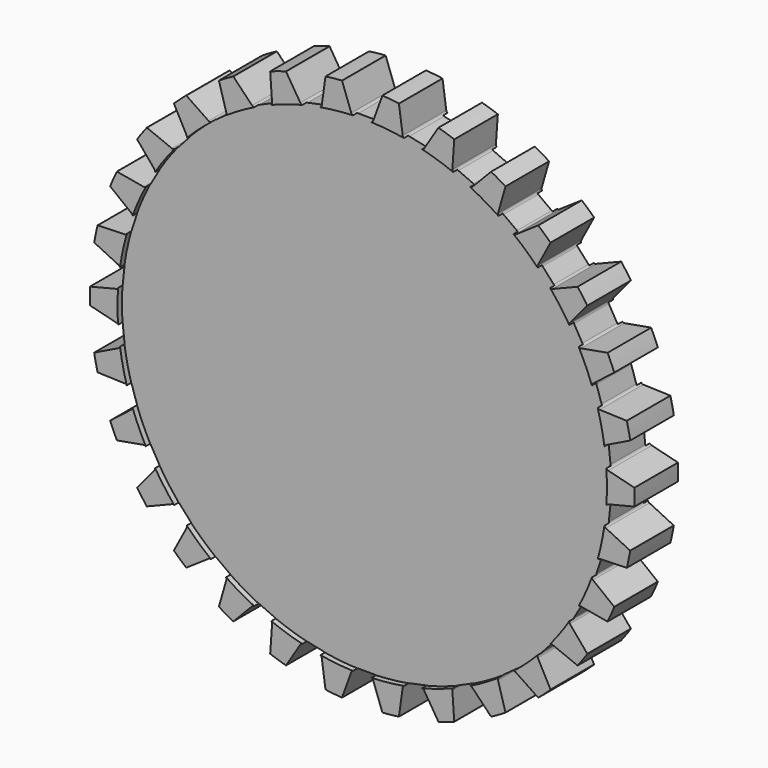
from build123d import *

# Parameters (mm, degrees)
F3_DEPTH = 2.5
F4_COUNT = 30


with BuildPart() as f1:
    # F0 (on Right) → F1 (revolve)
    with BuildSketch(Plane.YZ):
        Polygon((2.5, 22.46), (2.5, 25), (-2.5, 25), (-2.5, 22.46), (-1.992, 22.46), (-1.992, 0), (1.992, 0), (1.992, 22.46), align=None)
    revolve(axis=Axis((0, 0, 0), (0, 1, 0)))

    # F2 (on Front) → F3 (cut, symmetric)
    with BuildSketch(Plane.XZ):
        with BuildLine():
            Line((-1.8641087462, 24.9578601853), (-1.8341443453, 24.8754703096))
            Line((-1.8341443453, 24.8754703096), (-1.0040476897, 22.5930432206))
            ThreePointArc((-1.0040476897, 22.5930432206), (-0.9110584265, 22.4718107239), (-0.7653442975, 22.4258573355))
            Line((-0.7653442975, 22.4258573355), (0.7653442975, 22.4258573355))
            ThreePointArc((0.7653442975, 22.4258573355), (0.9110584265, 22.4718107239), (1.0040476897, 22.5930432206))
            Line((1.0040476897, 22.5930432206), (1.8341443453, 24.8754703096))
            Line((1.8341443453, 24.8754703096), (1.8623136477, 24.9529243971))
            ThreePointArc((1.8623136477, 24.9529243971), (-0.0007646731, 25.0557111393), (-1.8641087462, 24.9578601853))
        make_face()
    f3 = extrude(amount=F3_DEPTH, both=True, mode=Mode.SUBTRACT)

    # F4: F3 ×30 about axis
    f4_axis = Axis((0, 2.5, 0), (0, -1, 0))
    for i in range(1, F4_COUNT):
        add(f3.rotate(f4_axis, i * 360 / F4_COUNT), mode=Mode.SUBTRACT)


solid = f1.part
